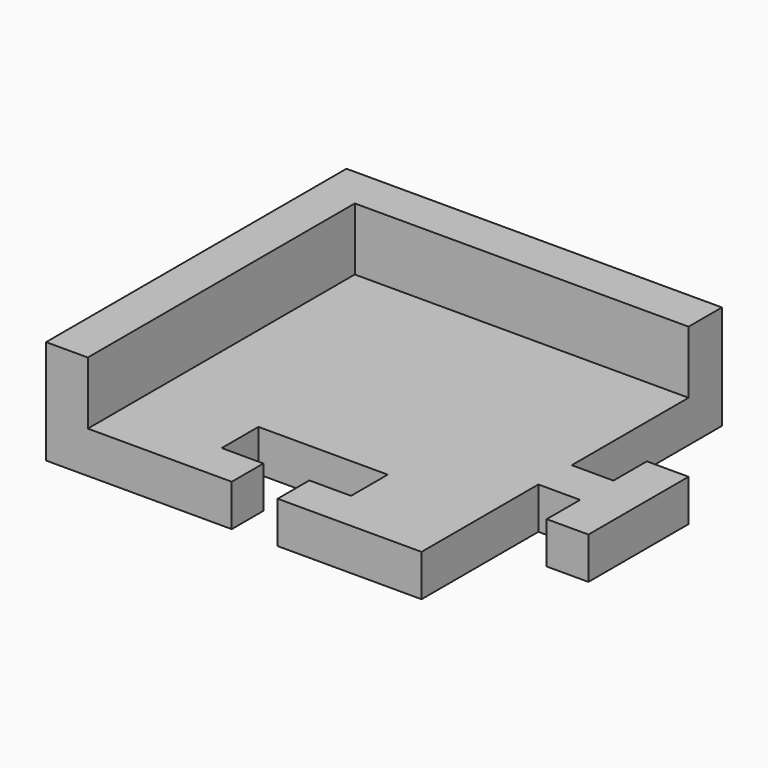
from build123d import *

# Parameters (mm, degrees)
F1_DEPTH = 10
F2_DEPTH = 25


with BuildPart() as f1:
    # F0 (on Top) → F1 (new body)
    with BuildSketch(Plane.XY):
        Polygon((0, 80), (0, 0), (34.499999, 0), (34.499999, 9.499999), (24.499999, 9.499999), (24.499999, 20.500001), (55.500001, 20.500001), (55.500001, 9.499999), (45.500001, 9.499999), (45.500001, 0), (80, 0), (80, 35), (90, 35), (90, 25), (100, 25), (100, 55), (90, 55), (90, 45), (80, 45), (80, 80), align=None)
    extrude(amount=F1_DEPTH)

    # F0 (on Top) → F2 (join)
    with BuildSketch(Plane.XY):
        Polygon((-10, 0), (0, 0), (0, 80), (80, 80), (80, 90), (-10, 90), align=None)
    extrude(amount=F2_DEPTH)


solid = f1.part
